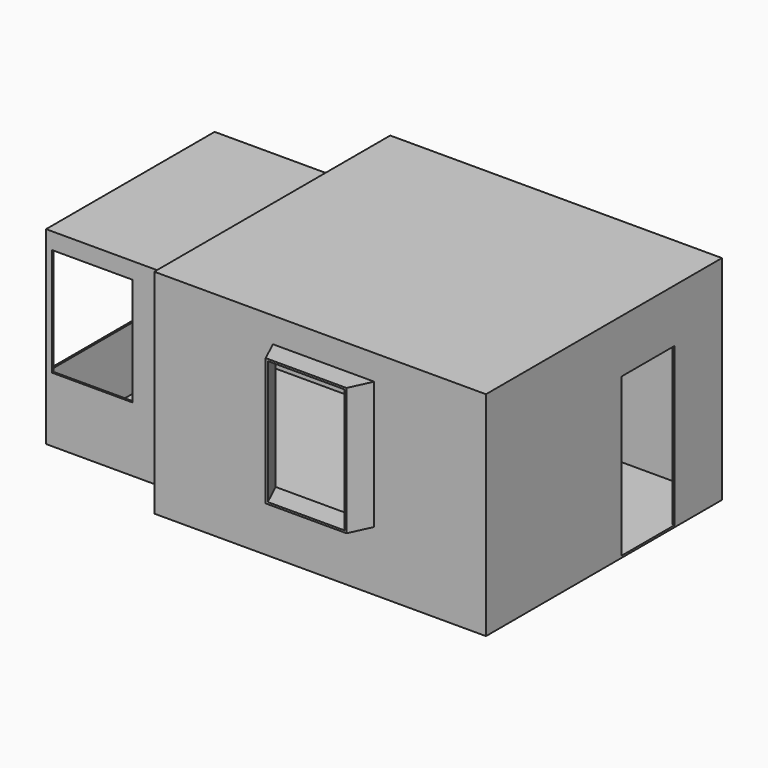
from build123d import *

# Parameters (mm, degrees)
F1_DEPTH  = 2730
F3_DEPTH  = 780
F6_DEPTH  = 330
F8_W      = 1820
F8_H      = 2700
F9_DEPTH  = 310
F10_T     = 25
F11_W     = 860
F11_H     = 2060
F12_DEPTH = 25
F13_W     = 2600
F13_H     = 1410
F14_DEPTH = 25
F15_W     = 1050
F15_H     = 1410
F16_DEPTH = 25
F17_W     = 1050
F17_H     = 1410
F18_DEPTH = 25


with BuildPart() as f1:
    # F0 (on Top) → F1 (new body)
    with BuildSketch(Plane.XY):
        Polygon((-1450, 0), (0, 0), (0, 3800), (-4280, 3800), (-4280, 3210), (-6100, 3210), (-6100, 510), (-4280, 510), (-4280, 0), (-2740, 0), (-2595, -310), (-1595, -310), align=None)
    extrude(amount=F1_DEPTH)

    # F2 (on face) → F3 (cut)
    with BuildSketch(Plane(origin=(0, 0, 0), x_dir=(1, 0, 0), z_dir=(0, 0, -1))):
        Polygon((-2595, 310), (-2740, 0), (-1450, 0), (-1595, 310), align=None)
        Polygon((-2595, 310), (-2740, 0), (-1450, 0), (-1595, 310), align=None)
    extrude(amount=-F3_DEPTH, mode=Mode.SUBTRACT)

    # F5 (on offset) → F6 (cut, through all)
    with BuildSketch(Plane(origin=(0, 0, 2400), x_dir=(1, 0, 0), z_dir=(0, 0, -1))):
        Polygon((-2595, 310), (-2740, 0), (-1450, 0), (-1595, 310), align=None)
    extrude(amount=-F6_DEPTH, mode=Mode.SUBTRACT)

    # F8 (on offset) → F9 (cut, through all)
    with BuildSketch(Plane(origin=(0, 0, 2420), x_dir=(1, 0, 0), z_dir=(0, 0, -1))):
        with Locations((-5190, -1860)):
            Rectangle(F8_W, F8_H)
    extrude(amount=-F9_DEPTH, mode=Mode.SUBTRACT)

    # F10
    f10_openings = [f1.faces().sort_by_distance(p)[0] for p in [
        (-2095, -310, 1590),
    ]]
    offset(amount=F10_T, openings=f10_openings, kind=Kind.INTERSECTION)

    # F11 (on face) → F12 (cut, through all)
    with BuildSketch(Plane.YZ.offset(25)):
        with Locations((2620, 1030)):
            Rectangle(F11_W, F11_H)
    extrude(amount=-F12_DEPTH, mode=Mode.SUBTRACT)

    # F13 (on face) → F14 (cut, through all)
    with BuildSketch(Plane.YZ.offset(-6100)):
        with Locations((1860, 1525)):
            Rectangle(F13_W, F13_H)
    extrude(amount=-F14_DEPTH, mode=Mode.SUBTRACT)

    # F15 (on face) → F16 (cut, through all)
    with BuildSketch(Plane.XZ.offset(-3210)):
        with Locations((-5525, 1525)):
            Rectangle(F15_W, F15_H)
    extrude(amount=-F16_DEPTH, mode=Mode.SUBTRACT)

    # F17 (on face) → F18 (cut, through all)
    with BuildSketch(Plane(origin=(0, 510, 0), x_dir=(-1, 0, 0), z_dir=(0, 1, 0))):
        with Locations((5525, 1525)):
            Rectangle(F17_W, F17_H)
    extrude(amount=-F18_DEPTH, mode=Mode.SUBTRACT)


solid = f1.part
